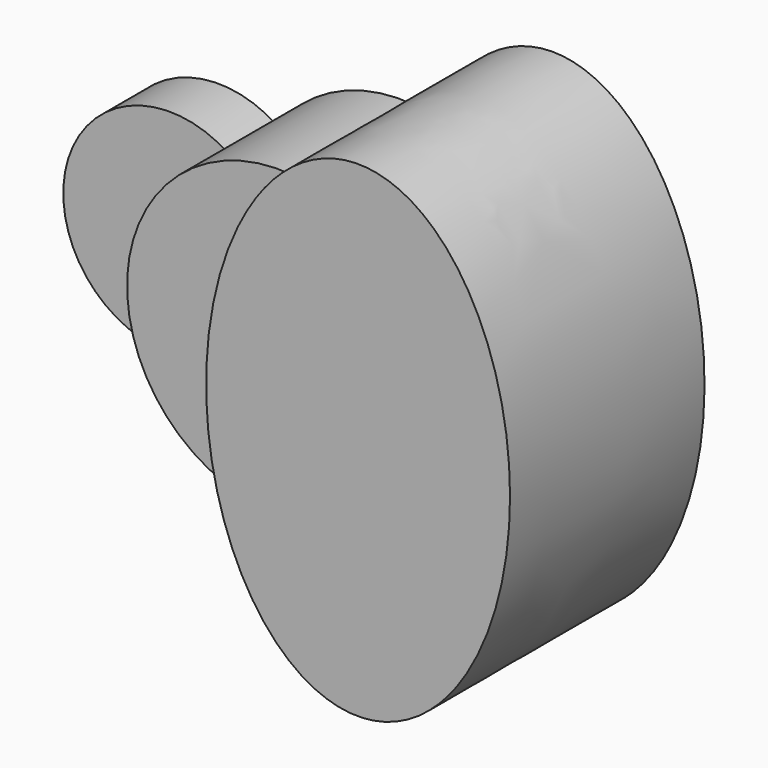
from build123d import *

# Parameters (mm, degrees)
F1_DEPTH = 25.4
F2_DEPTH = 63.5
F3_DEPTH = 101.6


with BuildPart() as f1:
    # F0 (on Front) → F1 (new body)
    with BuildSketch(Plane.XZ):
        with BuildLine():
            ThreePointArc((-51.59375, -37.0180356169), (-60.4501990278, -19.4428248333), (-63.5, 0))
            ThreePointArc((-63.5, 0), (-60.4501990278, 19.4428248333), (-51.59375, 37.0180356169))
            ThreePointArc((-51.59375, 37.0180356169), (-120.65, 0), (-51.59375, -37.0180356169))
        make_face()
    extrude(amount=F1_DEPTH)

    # F0 (on Front) → F2 (join)
    with BuildSketch(Plane.XZ):
        with BuildLine():
            Line((-63.5, 0), (-31.75, 0))
            ThreePointArc((-31.75, 0), (-37.0237934934, 21.0006510316), (-51.59375, 37.0180356169))
            ThreePointArc((-51.59375, 37.0180356169), (-60.4501990278, 19.4428248333), (-63.5, 0))
        make_face()
        with BuildLine():
            ThreePointArc((-51.59375, -37.0180356169), (-37.0237934934, -21.0006510316), (-31.75, 0))
            Line((-31.75, 0), (-63.5, 0))
            ThreePointArc((-63.5, 0), (-60.4501990278, -19.4428248333), (-51.59375, -37.0180356169))
        make_face()
        with BuildLine():
            Line((-31.75, 0), (0, 0))
            add(Edge.make_bspline(
                [(13.2439655959, 62.1035214404), (0, 34.6669399309), (0, 0)],
                knots=[0.9131508081, 0.9131508081, 0.9131508081, 1.5707963268, 1.5707963268, 1.5707963268], degree=2, weights=[1, 0.9464231645, 1]))
            ThreePointArc((13.2439655959, 62.1035214404), (-22.9128106244, 59.2220660674), (-51.59375, 37.0180356169))
            ThreePointArc((-51.59375, 37.0180356169), (-37.0237934934, 21.0006510316), (-31.75, 0))
        make_face()
        with BuildLine():
            add(Edge.make_bspline(
                [(0, 0), (0, -34.6669399309), (13.2439655959, -62.1035214404)],
                knots=[1.5707963268, 1.5707963268, 1.5707963268, 2.2284418454, 2.2284418454, 2.2284418454], degree=2, weights=[1, 0.9464231645, 1]))
            Line((0, 0), (-31.75, 0))
            ThreePointArc((-31.75, 0), (-37.0237934934, -21.0006510316), (-51.59375, -37.0180356169))
            ThreePointArc((-51.59375, -37.0180356169), (-22.9128106244, -59.2220660674), (13.2439655959, -62.1035214404))
        make_face()
    extrude(amount=F2_DEPTH)

    # F0 (on Front) → F3 (join)
    with BuildSketch(Plane.XZ):
        with BuildLine():
            add(Edge.make_bspline(
                [(13.2439655959, 62.1035214404), (0, 34.6669399309), (0, 0)],
                knots=[0.9131508081, 0.9131508081, 0.9131508081, 1.5707963268, 1.5707963268, 1.5707963268], degree=2, weights=[1, 0.9464231645, 1]))
            add(Edge.make_bspline(
                [(0, 0), (0, -34.6669399309), (13.2439655959, -62.1035214404)],
                knots=[1.5707963268, 1.5707963268, 1.5707963268, 2.2284418454, 2.2284418454, 2.2284418454], degree=2, weights=[1, 0.9464231645, 1]))
            ThreePointArc((13.2439655959, -62.1035214404), (49.3621404284, -39.9453262889), (63.5, 0))
            ThreePointArc((63.5, 0), (49.3621404284, 39.9453262889), (13.2439655959, 62.1035214404))
        make_face()
        with BuildLine():
            add(Edge.make_bspline(
                [(63.5, 101.6), (32.3093875408, 101.6), (13.2439655959, 62.1035214404)],
                knots=[0, 0, 0, 0.9131508081, 0.9131508081, 0.9131508081], degree=2, weights=[1, 0.8975675831, 1]))
            ThreePointArc((13.2439655959, 62.1035214404), (49.3621404284, 39.9453262889), (63.5, 0))
            ThreePointArc((63.5, 0), (49.3621404284, -39.9453262889), (13.2439655959, -62.1035214404))
            add(Edge.make_bspline(
                [(13.2439655959, -62.1035214404), (75.5537087854, -191.1861844445), (120.4955415237, -44.7930922222), (165.437374262, 101.6), (63.5, 101.6)],
                knots=[2.2284418454, 2.2284418454, 2.2284418454, 4.2558135763, 4.2558135763, 6.2831853072, 6.2831853072, 6.2831853072], degree=2, weights=[1, 0.5287358074, 1, 0.5287358074, 1]))
        make_face()
    extrude(amount=F3_DEPTH)


solid = f1.part
